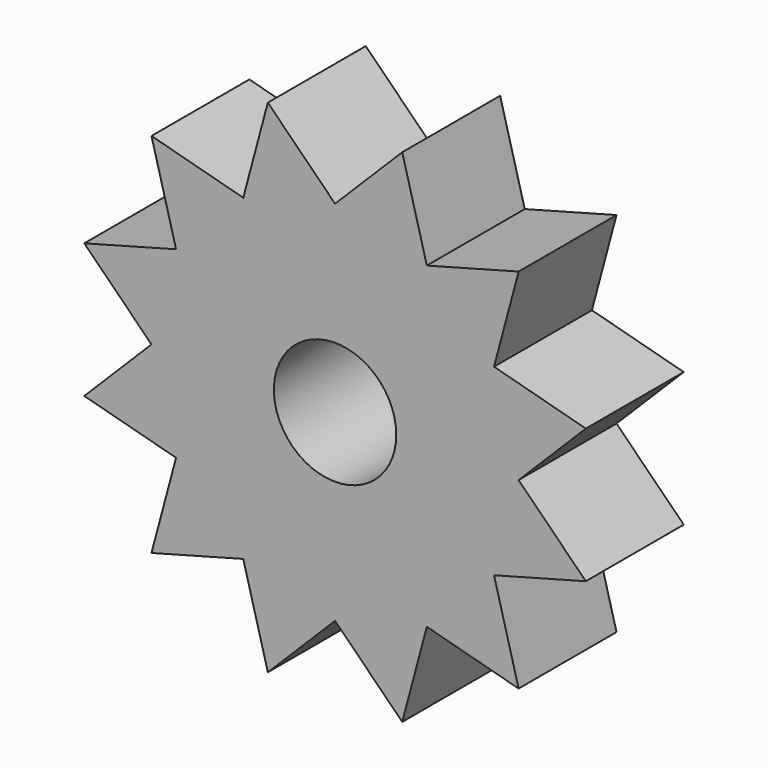
from build123d import *

# Parameters (mm, degrees)
F0_R     = 2
F1_DEPTH = 2


with BuildPart() as f1:
    # F0 (on Front) → F1 (new body, symmetric)
    with BuildSketch(Plane.XZ):
        with BuildLine():
            ThreePointArc((5.1961524227, -3), (5.7955549577, -1.5529142706), (6, 0))
            ThreePointArc((6, 0), (5.7955549577, 1.5529142706), (5.1961524227, 3))
            ThreePointArc((5.1961524227, 3), (4.2426406871, 4.2426406871), (3, 5.1961524227))
            ThreePointArc((3, 5.1961524227), (1.5529142706, 5.7955549577), (0, 6))
            ThreePointArc((0, 6), (-1.5529142706, 5.7955549577), (-3, 5.1961524227))
            ThreePointArc((-3, 5.1961524227), (-4.2426406871, 4.2426406871), (-5.1961524227, 3))
            ThreePointArc((-5.1961524227, 3), (-5.7955549577, 1.5529142706), (-6, 0))
            ThreePointArc((-6, 0), (-5.7955549577, -1.5529142706), (-5.1961524227, -3))
            ThreePointArc((-5.1961524227, -3), (-4.2426406871, -4.2426406871), (-3, -5.1961524227))
            ThreePointArc((-3, -5.1961524227), (-1.5529142706, -5.7955549577), (0, -6))
            ThreePointArc((0, -6), (1.5529142706, -5.7955549577), (3, -5.1961524227))
            ThreePointArc((3, -5.1961524227), (4.2426406871, -4.2426406871), (5.1961524227, -3))
        make_face()
        Circle(F0_R, mode=Mode.SUBTRACT)
        with BuildLine():
            Line((8.1961524227, -2.1961524227), (6, 0))
            ThreePointArc((6, 0), (5.7955549577, -1.5529142706), (5.1961524227, -3))
            Line((5.1961524227, -3), (8.1961524227, -2.1961524227))
        make_face()
        with BuildLine():
            ThreePointArc((5.1961524227, 3), (5.7955549577, 1.5529142706), (6, 0))
            Line((6, 0), (8.1961524227, 2.1961524227))
            Line((8.1961524227, 2.1961524227), (5.1961524227, 3))
        make_face()
        with BuildLine():
            ThreePointArc((3, 5.1961524227), (4.2426406871, 4.2426406871), (5.1961524227, 3))
            Line((5.1961524227, 3), (6, 6))
            Line((6, 6), (3, 5.1961524227))
        make_face()
        with BuildLine():
            Line((6, -6), (5.1961524227, -3))
            ThreePointArc((5.1961524227, -3), (4.2426406871, -4.2426406871), (3, -5.1961524227))
            Line((3, -5.1961524227), (6, -6))
        make_face()
        with BuildLine():
            ThreePointArc((0, 6), (1.5529142706, 5.7955549577), (3, 5.1961524227))
            Line((3, 5.1961524227), (2.1961524227, 8.1961524227))
            Line((2.1961524227, 8.1961524227), (0, 6))
        make_face()
        with BuildLine():
            Line((2.1961524227, -8.1961524227), (3, -5.1961524227))
            ThreePointArc((3, -5.1961524227), (1.5529142706, -5.7955549577), (0, -6))
            Line((0, -6), (2.1961524227, -8.1961524227))
        make_face()
        with BuildLine():
            ThreePointArc((-3, 5.1961524227), (-1.5529142706, 5.7955549577), (0, 6))
            Line((0, 6), (-2.1961524227, 8.1961524227))
            Line((-2.1961524227, 8.1961524227), (-3, 5.1961524227))
        make_face()
        with BuildLine():
            Line((-2.1961524227, -8.1961524227), (0, -6))
            ThreePointArc((0, -6), (-1.5529142706, -5.7955549577), (-3, -5.1961524227))
            Line((-3, -5.1961524227), (-2.1961524227, -8.1961524227))
        make_face()
        with BuildLine():
            ThreePointArc((-5.1961524227, 3), (-4.2426406871, 4.2426406871), (-3, 5.1961524227))
            Line((-3, 5.1961524227), (-6, 6))
            Line((-6, 6), (-5.1961524227, 3))
        make_face()
        with BuildLine():
            Line((-6, -6), (-3, -5.1961524227))
            ThreePointArc((-3, -5.1961524227), (-4.2426406871, -4.2426406871), (-5.1961524227, -3))
            Line((-5.1961524227, -3), (-6, -6))
        make_face()
        with BuildLine():
            ThreePointArc((-6, 0), (-5.7955549577, 1.5529142706), (-5.1961524227, 3))
            Line((-5.1961524227, 3), (-8.1961524227, 2.1961524227))
            Line((-8.1961524227, 2.1961524227), (-6, 0))
        make_face()
        with BuildLine():
            Line((-8.1961524227, -2.1961524227), (-5.1961524227, -3))
            ThreePointArc((-5.1961524227, -3), (-5.7955549577, -1.5529142706), (-6, 0))
            Line((-6, 0), (-8.1961524227, -2.1961524227))
        make_face()
    extrude(amount=F1_DEPTH, both=True)


solid = f1.part
